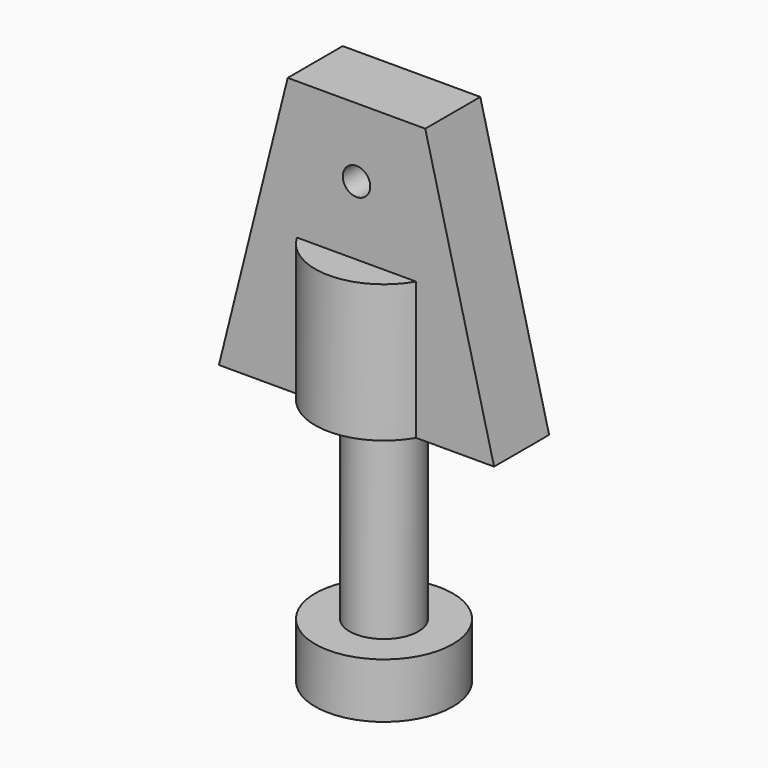
from build123d import *

# Parameters (mm, degrees)
F0_R          = 0.635
F1_DEPTH      = 1.5875
F1_DEPTH_BACK = 1.5875
F2_R          = 3.175
F2_R_2        = 1.5875
F3_DEPTH      = 6.35
F4_DEPTH      = 6.096
F5_DEPTH      = 11.43
F6_START      = -8.89
F6_DEPTH      = 2.54


with BuildPart() as f1:
    # F0 (on Front) → F1 (new body, two sides)
    with BuildSketch(Plane.XZ) as f1_sk:
        Polygon((-3.175, 12.7), (-6.35, 0), (6.35, 0), (3.175, 12.7), align=None)
        with Locations((0, 9.525)):
            Circle(F0_R, mode=Mode.SUBTRACT)
    extrude(amount=F1_DEPTH)
    extrude(f1_sk.sketch, amount=-F1_DEPTH_BACK)

    # F2 (on Top) → F3 (join)
    with BuildSketch(Plane.XY):
        Circle(F2_R)
        Circle(F2_R_2, mode=Mode.SUBTRACT)
    extrude(amount=F3_DEPTH)

    # F2 (on Top) → F4 (cut)
    with BuildSketch(Plane.XY):
        Circle(F2_R_2)
    extrude(amount=F4_DEPTH, mode=Mode.SUBTRACT)


with BuildPart() as f5:
    # F2 (on Top) → F5 (new body)
    with BuildSketch(Plane.XY):
        Circle(F2_R_2)
    extrude(amount=-F5_DEPTH)

    # F2 (on Top) → F6 (join)
    with BuildSketch(Plane.XY.offset(F6_START)):
        Circle(F2_R)
        Circle(F2_R_2, mode=Mode.SUBTRACT)
    extrude(amount=-F6_DEPTH)


solid = Compound([f1.part, f5.part])
